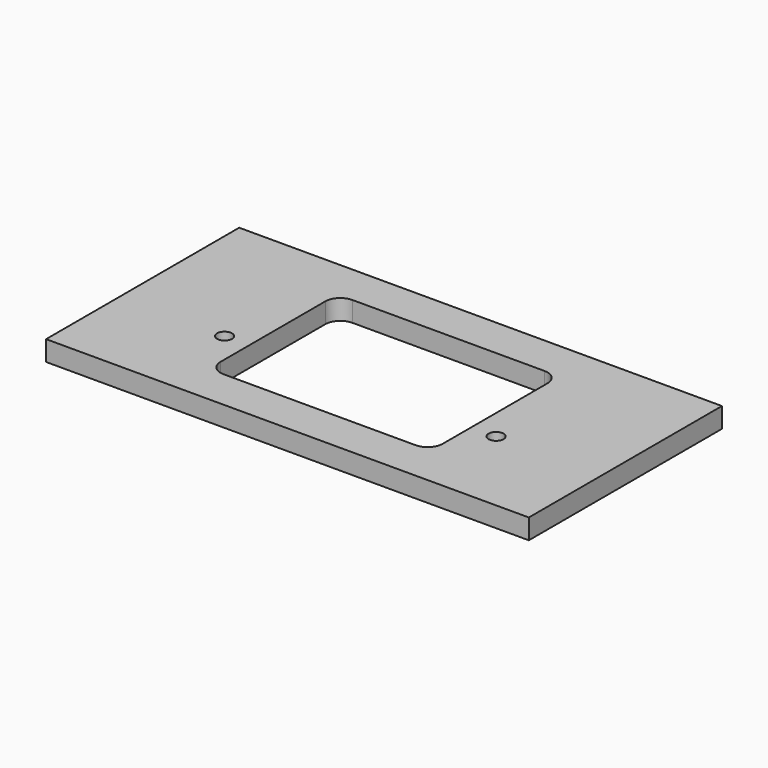
from build123d import *

# Parameters (mm, degrees)
F0_W           = 152.4
F0_H           = 76.2
F1_DEPTH       = 6.35
F2_D           = 4.7498
F2_CSINK_D     = 8.6106
F2_CSINK_ANGLE = 90


with BuildPart() as f1:
    # F0 (on Top) → F1 (new body)
    with BuildSketch(Plane.XY):
        Rectangle(F0_W, F0_H)
        with BuildLine():
            Line((30.3022, -25.4), (-30.3022, -25.4))
            ThreePointArc((-30.3022, -25.4), (-33.6608157893, -24.0088157893), (-35.052, -20.6502))
            Line((-35.052, -20.6502), (-35.052, 20.6502))
            ThreePointArc((-35.052, 20.6502), (-33.6608157893, 24.0088157893), (-30.3022, 25.4))
            Line((-30.3022, 25.4), (30.3022, 25.4))
            ThreePointArc((30.3022, 25.4), (33.6608157893, 24.0088157893), (35.052, 20.6502))
            Line((35.052, 20.6502), (35.052, -20.6502))
            ThreePointArc((35.052, -20.6502), (33.6608157893, -24.0088157893), (30.3022, -25.4))
        make_face(mode=Mode.SUBTRACT)
    extrude(amount=F1_DEPTH)

    # F2 (through all)
    with Locations(Plane(origin=(0, 0, 0), x_dir=(1, 0, 0), z_dir=(0, 0, -1))):
        with Locations((-42.8625, 9.3472), (42.8625, 9.3472)):
            CounterSinkHole(F2_D / 2, F2_CSINK_D / 2, counter_sink_angle=F2_CSINK_ANGLE)


solid = f1.part
